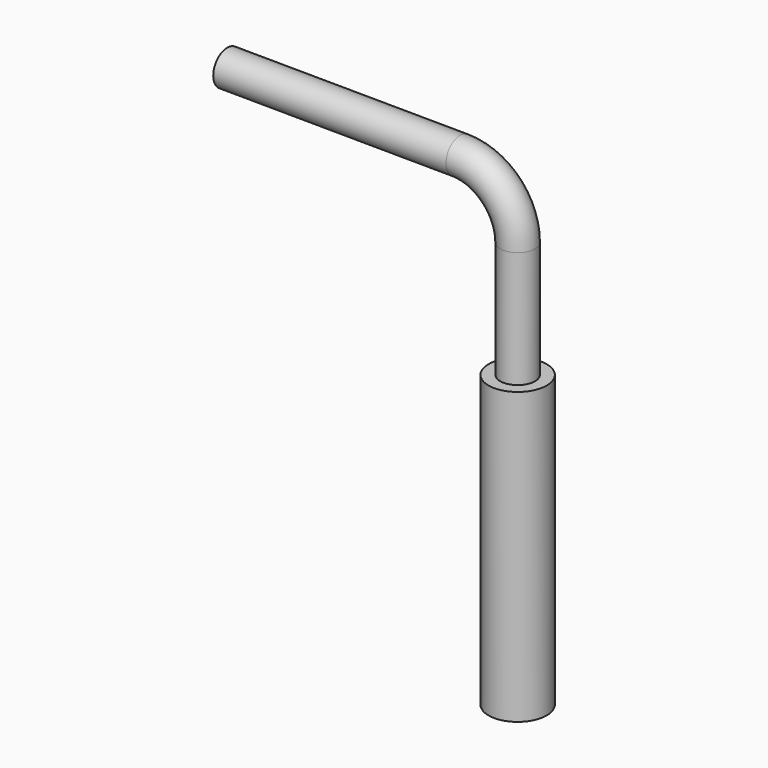
from build123d import *

# Parameters (mm, degrees)
F0_R     = 5
F1_DEPTH = 50
F2_R     = 3


with BuildPart() as f1:
    # F0 (on Top) → F1 (new body)
    with BuildSketch(Plane.XY):
        Circle(F0_R)
    extrude(amount=F1_DEPTH)

    # F4: sweep along a path in F3
    with BuildLine(Plane.XZ) as f4_path:
        Line((0, 50), (0, 70.065357))
        ThreePointArc((0, 70.065357), (-2.906012, 77.11343), (-9.935066, 80.065146))
        Line((-9.935066, 80.065146), (-50, 80.325309))
    # F2 (on face) → F4 (sweep)
    with BuildSketch(Plane.XY.offset(50)):
        Circle(F2_R)
    sweep(path=f4_path.line)


solid = f1.part
